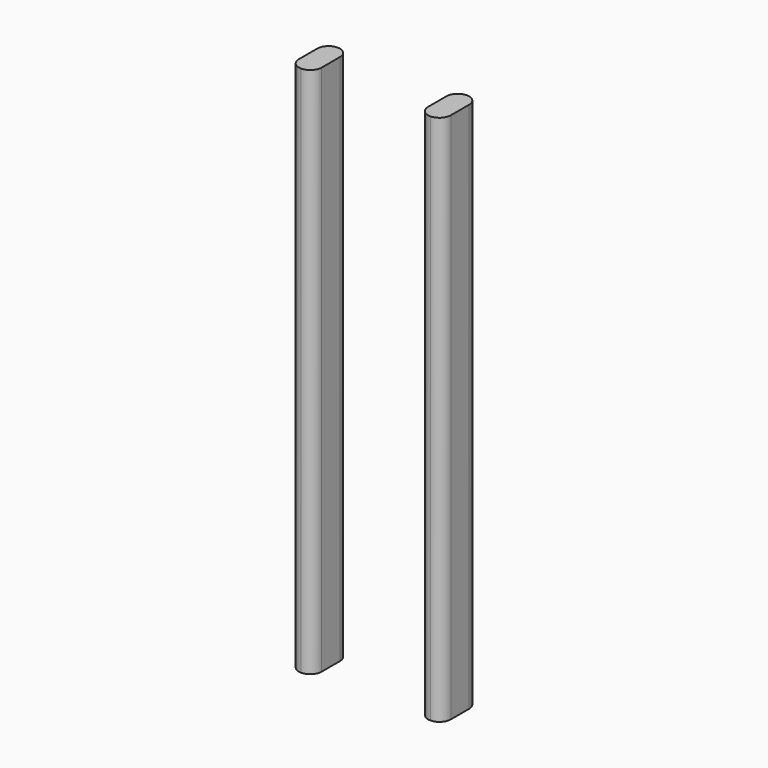
from build123d import *

# Parameters (mm, degrees)
F1_DEPTH = 700


with BuildPart() as f1:
    # F0 (on Top) → F1 (new body)
    with BuildSketch(Plane.XY):
        with BuildLine():
            Line((-100, 45), (-100, 15))
            ThreePointArc((-100, 15), (-95.606602, 4.393398), (-85, 0))
            ThreePointArc((-85, 0), (-74.393398, 4.393398), (-70, 15))
            Line((-70, 15), (-70, 45))
            ThreePointArc((-70, 45), (-74.393398, 55.606602), (-85, 60))
            ThreePointArc((-85, 60), (-95.606602, 55.606602), (-100, 45))
        make_face()
        with BuildLine():
            Line((70, 45), (70, 15))
            ThreePointArc((70, 15), (74.393398, 4.393398), (85, 0))
            ThreePointArc((85, 0), (95.606602, 4.393398), (100, 15))
            Line((100, 15), (100, 45))
            ThreePointArc((100, 45), (95.606602, 55.606602), (85, 60))
            ThreePointArc((85, 60), (74.393398, 55.606602), (70, 45))
        make_face()
    extrude(amount=-F1_DEPTH)


solid = f1.part
